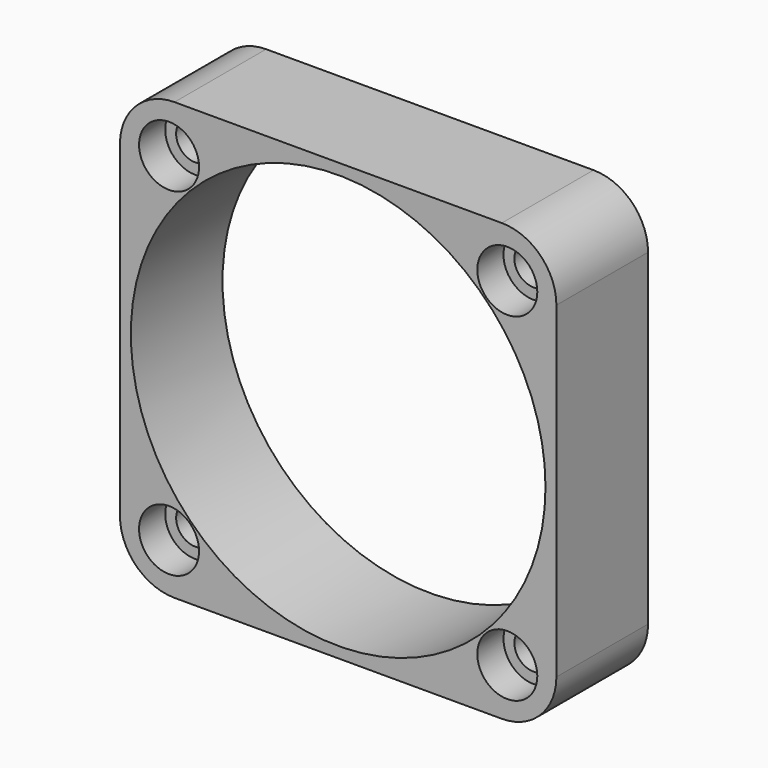
from build123d import *

# Parameters (mm, degrees)
F0_W     = 40
F0_H     = 40
F0_R     = 1.75
F0_R_2   = 19
F1_DEPTH = 10.5
F2_R     = 2.75
F3_DEPTH = 3
F4_R     = 5


with BuildPart() as f1:
    # F0 (on Front) → F1 (new body)
    with BuildSketch(Plane.XZ):
        Rectangle(F0_W, F0_H)
        with Locations((-15.5, -15.5)):
            Circle(F0_R, mode=Mode.SUBTRACT)
        with Locations((15.5, -15.5)):
            Circle(F0_R, mode=Mode.SUBTRACT)
        with Locations((-15.5, 15.5)):
            Circle(F0_R, mode=Mode.SUBTRACT)
        Circle(F0_R_2, mode=Mode.SUBTRACT)
        with Locations((15.5, 15.5)):
            Circle(F0_R, mode=Mode.SUBTRACT)
    extrude(amount=F1_DEPTH)

    # F2 (on face) → F3 (cut)
    with BuildSketch(Plane.XZ.offset(10.5)):
        with Locations((-15.5, 15.5)):
            Circle(F2_R)
        with Locations((15.5, 15.5)):
            Circle(F2_R)
        with Locations((15.5, -15.5)):
            Circle(F2_R)
        with Locations((-15.5, -15.5)):
            Circle(F2_R)
    extrude(amount=-F3_DEPTH, mode=Mode.SUBTRACT)

    # F4
    f4_edges = [f1.edges().sort_by_distance(p)[0] for p in [
        (20, -5.25, 20),
        (-20, -5.25, 20),
        (-20, -5.25, -20),
        (20, -5.25, -20),
    ]]
    fillet(f4_edges, radius=F4_R)


solid = f1.part
